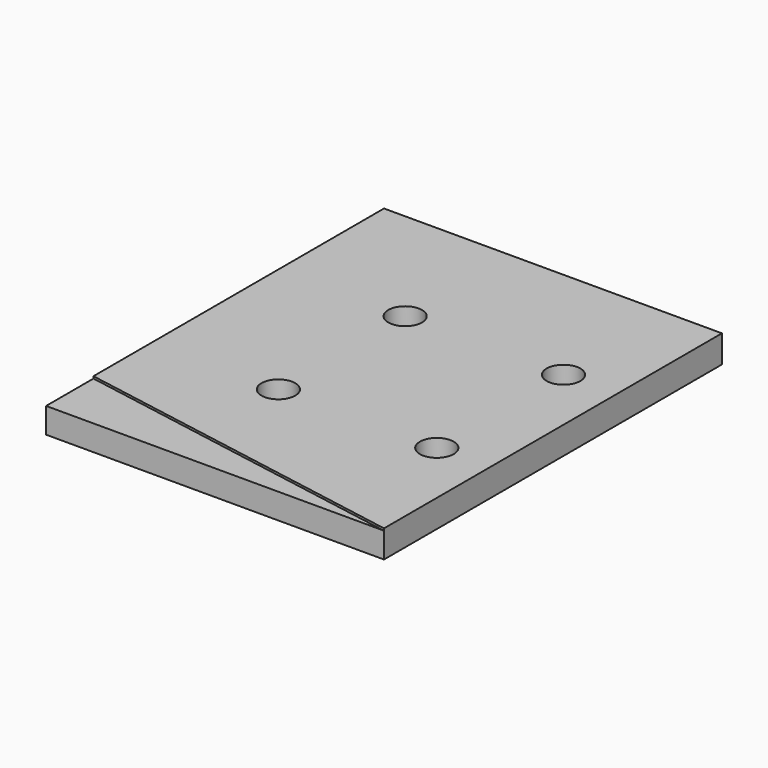
from build123d import *

# Parameters (mm, degrees)
PAD_DEPTH       = 13
POCKET_DEPTH    = 1
SKETCH003_R     = 8
POCKET001_DEPTH = 13.001


with BuildPart() as part:
    # Sketch → Pad (new body)
    with BuildSketch(Plane.XY):
        Polygon((0, 0), (0, 100), (160, 100), (160, -100), (0, -100), align=None)
    extrude(amount=PAD_DEPTH)

    # Sketch002 (on Face7 of Pad) → Pocket (cut)
    with BuildSketch(Plane.XY.offset(13)):
        Polygon((0, -100), (0, -71.973152), (160, -100), align=None)
    extrude(amount=-POCKET_DEPTH, mode=Mode.SUBTRACT)

    # Sketch003 (on Face5 of Pocket) → Pocket001 (cut, through all)
    with BuildSketch(Plane.XY.offset(13)):
        with Locations((60, 37.5)):
            Circle(SKETCH003_R)
        with Locations((135, 37.5)):
            Circle(SKETCH003_R)
        with Locations((135, -37.5)):
            Circle(SKETCH003_R)
        with Locations((60, -37.5)):
            Circle(SKETCH003_R)
    extrude(amount=-POCKET001_DEPTH, mode=Mode.SUBTRACT)


solid = part.part
